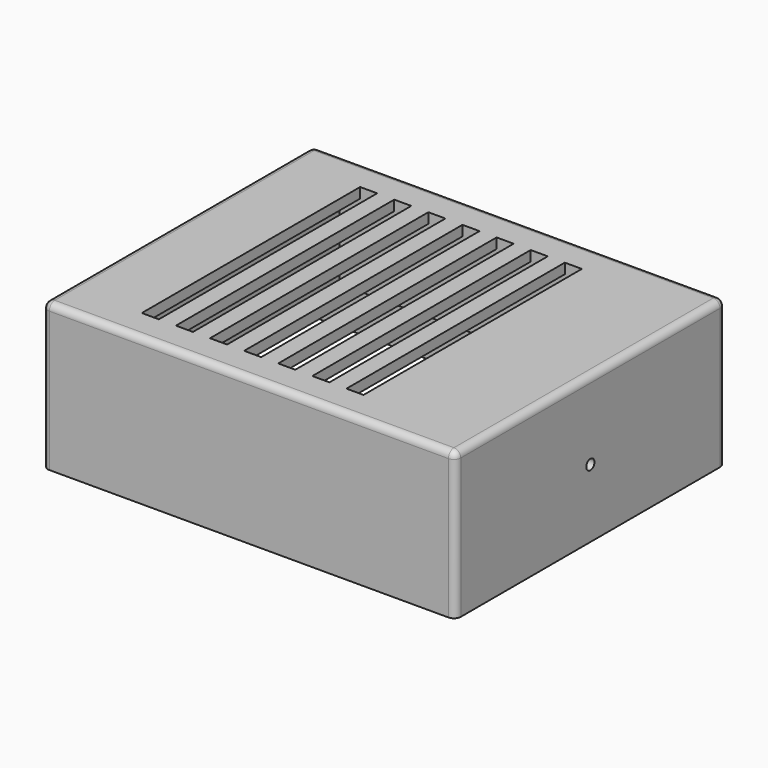
from build123d import *

# Parameters (mm, degrees)
F0_W      = 121
F0_H      = 99
F0_W_2    = 117
F0_H_2    = 95
F1_DEPTH  = 15
F2_W      = 121
F2_H      = 99
F3_DEPTH  = 28
F4_R      = 2
F5_DEPTH  = 8
F6_W      = 6
F6_H      = 3
F6_W_2    = 5
F7_DEPTH  = 80
F8_W      = 71
F8_H      = 6
F9_DEPTH  = 1
F10_W     = 30
F10_H     = 65
F11_DEPTH = 25
F12_R     = 2
F13_R     = 1.5
F14_DEPTH = 4.5


with BuildPart() as f1:
    # F0 (on Top) → F1 (new body)
    with BuildSketch(Plane.XY):
        Rectangle(F0_W, F0_H)
        Rectangle(F0_W_2, F0_H_2, mode=Mode.SUBTRACT)
    extrude(amount=-F1_DEPTH)

    # F2 (on face) → F3 (join)
    with BuildSketch(Plane.XY):
        Rectangle(F2_W, F2_H)
        Polygon((-35, 40), (26, 40), (26, -40), (-35, -40), (-45, -40), (-45, 40), align=None, mode=Mode.SUBTRACT)
    extrude(amount=F3_DEPTH)

    # F4 (on face) → F5 (cut)
    with BuildSketch(Plane(origin=(0, 0, 0), x_dir=(1, 0, 0), z_dir=(0, 0, -1))):
        with Locations((-54, 35.5)):
            Circle(F4_R)
        with Locations((-54, -41.5)):
            Circle(F4_R)
        with Locations((36.5, 35.5)):
            Circle(F4_R)
        with Locations((36.5, -41.5)):
            Circle(F4_R)
    extrude(amount=-F5_DEPTH, mode=Mode.SUBTRACT)

    # F6 (on face) → F7 (join, through all)
    with BuildSketch(Plane(origin=(0, -40, 0), x_dir=(-1, 0, 0), z_dir=(0, 1, 0))):
        with Locations((42, 26.5)):
            Rectangle(F6_W, F6_H)
        with Locations((31.5, 26.5)):
            Rectangle(F6_W_2, F6_H)
        with Locations((21.5, 26.5)):
            Rectangle(F6_W_2, F6_H)
        with Locations((11.5, 26.5)):
            Rectangle(F6_W_2, F6_H)
        with Locations((1.5, 26.5)):
            Rectangle(F6_W_2, F6_H)
        with Locations((-8.5, 26.5)):
            Rectangle(F6_W_2, F6_H)
        with Locations((-18.5, 26.5)):
            Rectangle(F6_W_2, F6_H)
    extrude(amount=F7_DEPTH)

    # F8 (on face) → F9 (cut)
    with BuildSketch(Plane(origin=(0, 0, 0), x_dir=(1, 0, 0), z_dir=(0, 0, -1))):
        with Locations((-9.5, 43)):
            Rectangle(F8_W, F8_H)
        with Locations((-9.5, -43)):
            Rectangle(F8_W, F8_H)
    extrude(amount=-F9_DEPTH, mode=Mode.SUBTRACT)

    # F10 (on face) → F11 (cut)
    with BuildSketch(Plane(origin=(0, 0, 0), x_dir=(1, 0, 0), z_dir=(0, 0, -1))):
        with Locations((41, -2.5)):
            Rectangle(F10_W, F10_H)
    extrude(amount=-F11_DEPTH, mode=Mode.SUBTRACT)

    # F12
    f12_edges = [f1.edges().sort_by_distance(p)[0] for p in [
        (-60.5, 49.5, 6.5),
        (-60.5, 0, 28),
        (0, 49.5, 28),
        (-60.5, -49.5, 6.5),
        (0, -49.5, 28),
        (60.5, -49.5, 6.5),
        (60.5, 0, 28),
        (60.5, 49.5, 6.5),
    ]]
    fillet(f12_edges, radius=F12_R)

    # F13 (on face) → F14 (cut, through all)
    with BuildSketch(Plane.YZ.offset(60.5)):
        with Locations((0, 5)):
            Circle(F13_R)
    extrude(amount=-F14_DEPTH, mode=Mode.SUBTRACT)


solid = f1.part
